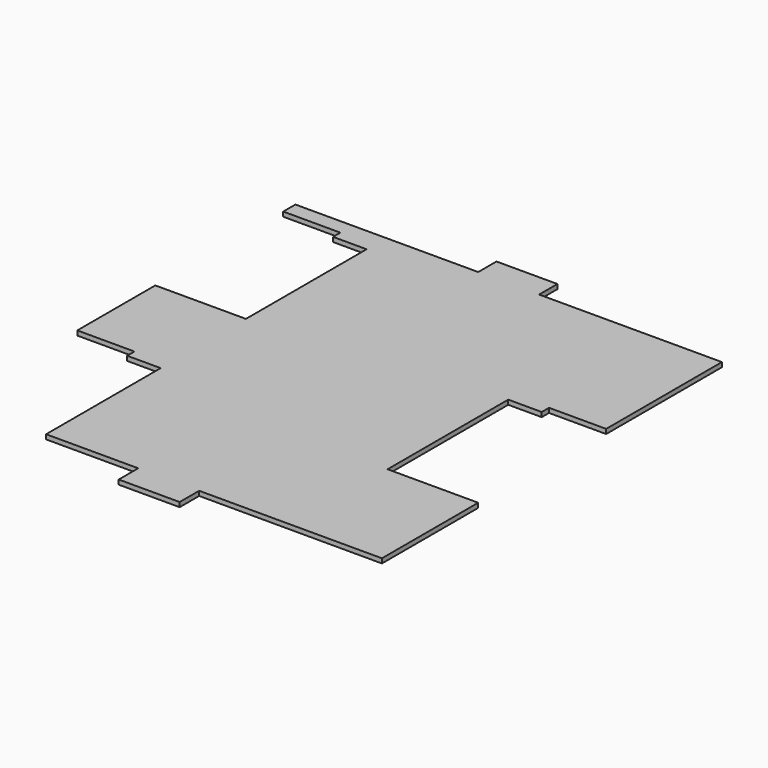
from build123d import *

# Parameters (mm, degrees)
BOX032_W     = 40
BOX032_H     = 17
BOX032_DEPTH = 40
BOX033_W     = 40
BOX033_H     = 17
BOX033_DEPTH = 40
BOX029_W     = 330
BOX029_H     = 20
BOX029_DEPTH = 40
BOX030_W     = 30
BOX030_H     = 330
BOX030_DEPTH = 40
BOX031_W     = 30
BOX031_H     = 330
BOX031_DEPTH = 40
BOX028_W     = 330
BOX028_H     = 20
BOX028_DEPTH = 40
BOX009_W     = 64.5
BOX009_H     = 12
BOX009_DEPTH = 3
BOX008_W     = 64.5
BOX008_H     = 10
BOX008_DEPTH = 3
BOX007_W     = 22
BOX007_H     = 6
BOX007_DEPTH = 3
BOX006_W     = 22
BOX006_H     = 6
BOX006_DEPTH = 3
BOX005_W     = 22
BOX005_H     = 6
BOX005_DEPTH = 3
BOX004_W     = 74.5
BOX004_H     = 117
BOX004_DEPTH = 10
BOX003_W     = 74.5
BOX003_H     = 117
BOX003_DEPTH = 10
BOX002_W     = 74.5
BOX002_H     = 117
BOX002_DEPTH = 10
BOX_W        = 310
BOX_H        = 310
BOX_DEPTH    = 3
BOX010_W     = 64.5
BOX010_H     = 12
BOX010_DEPTH = 3


with BuildPart() as cube031:
    # Box032 → Box032 (new body)
    with BuildSketch(Plane(origin=(-20, 140, 0), x_dir=(1, 0, 0), z_dir=(0, 0, 1))):
        with Locations((20, 8.5)):
            Rectangle(BOX032_W, BOX032_H)
    extrude(amount=BOX032_DEPTH)


with BuildPart() as fusion001010002020:
    # Box033 → Box033 (new body)
    with BuildSketch(Plane(origin=(-20, -156, 0), x_dir=(1, 0, 0), z_dir=(0, 0, 1))):
        with Locations((20, 8.5)):
            Rectangle(BOX033_W, BOX033_H)
    extrude(amount=BOX033_DEPTH)

    # Fusion001010002020: union Cube031
    add(cube031.part)


with BuildPart() as cube028:
    # Box029 → Box029 (new body)
    with BuildSketch(Plane(origin=(-165, -159, 0), x_dir=(1, 0, 0), z_dir=(0, 0, 1))):
        with Locations((165, 10)):
            Rectangle(BOX029_W, BOX029_H)
    extrude(amount=BOX029_DEPTH)


with BuildPart() as cube029:
    # Box030 → Box030 (new body)
    with BuildSketch(Plane(origin=(-170, -170, 0), x_dir=(1, 0, 0), z_dir=(0, 0, 1))):
        with Locations((15, 165)):
            Rectangle(BOX030_W, BOX030_H)
    extrude(amount=BOX030_DEPTH)


with BuildPart() as cube030:
    # Box031 → Box031 (new body)
    with BuildSketch(Plane(origin=(140, -170, 0), x_dir=(1, 0, 0), z_dir=(0, 0, 1))):
        with Locations((15, 165)):
            Rectangle(BOX031_W, BOX031_H)
    extrude(amount=BOX031_DEPTH)


with BuildPart() as cut007:
    # Box028 → Box028 (new body)
    with BuildSketch(Plane(origin=(-165, 140, 0), x_dir=(1, 0, 0), z_dir=(0, 0, 1))):
        with Locations((165, 10)):
            Rectangle(BOX028_W, BOX028_H)
    extrude(amount=BOX028_DEPTH)

    # Fusion001010002021: union Cube028, Cube029, Cube030
    add(cube028.part)
    add(cube029.part)
    add(cube030.part)

    # Cut007: cut Fusion001010002020
    add(fusion001010002020.part, mode=Mode.SUBTRACT)


with BuildPart() as cube008:
    # Box009 → Box009 (new body)
    with BuildSketch(Plane(origin=(80.5, -72, 28), x_dir=(1, 0, 0), z_dir=(0, 0, 1))):
        with Locations((32.25, 6)):
            Rectangle(BOX009_W, BOX009_H)
    extrude(amount=BOX009_DEPTH)


with BuildPart() as cube007:
    # Box008 → Box008 (new body)
    with BuildSketch(Plane(origin=(-145, -155, 28), x_dir=(1, 0, 0), z_dir=(0, 0, 1))):
        with Locations((32.25, 5)):
            Rectangle(BOX008_W, BOX008_H)
    extrude(amount=BOX008_DEPTH)


with BuildPart() as cube006:
    # Box007 → Box007 (new body)
    with BuildSketch(Plane(origin=(-102.5, 124, 28), x_dir=(1, 0, 0), z_dir=(0, 0, 1))):
        with Locations((11, 3)):
            Rectangle(BOX007_W, BOX007_H)
    extrude(amount=BOX007_DEPTH)


with BuildPart() as cube005:
    # Box006 → Box006 (new body)
    with BuildSketch(Plane(origin=(80.5, 39, 28), x_dir=(1, 0, 0), z_dir=(0, 0, 1))):
        with Locations((11, 3)):
            Rectangle(BOX006_W, BOX006_H)
    extrude(amount=BOX006_DEPTH)


with BuildPart() as cube004:
    # Box005 → Box005 (new body)
    with BuildSketch(Plane(origin=(-102.5, -45, 28), x_dir=(1, 0, 0), z_dir=(0, 0, 1))):
        with Locations((11, 3)):
            Rectangle(BOX005_W, BOX005_H)
    extrude(amount=BOX005_DEPTH)


with BuildPart() as cube003:
    # Box004 → Box004 (new body)
    with BuildSketch(Plane(origin=(-155, 13, 24), x_dir=(1, 0, 0), z_dir=(0, 0, 1))):
        with Locations((37.25, 58.5)):
            Rectangle(BOX004_W, BOX004_H)
    extrude(amount=BOX004_DEPTH)


with BuildPart() as cube002:
    # Box003 → Box003 (new body)
    with BuildSketch(Plane(origin=(-155, -156, 24), x_dir=(1, 0, 0), z_dir=(0, 0, 1))):
        with Locations((37.25, 58.5)):
            Rectangle(BOX003_W, BOX003_H)
    extrude(amount=BOX003_DEPTH)


with BuildPart() as fusion:
    # Box002 → Box002 (new body)
    with BuildSketch(Plane(origin=(80.5, -72, 24), x_dir=(1, 0, 0), z_dir=(0, 0, 1))):
        with Locations((37.25, 58.5)):
            Rectangle(BOX002_W, BOX002_H)
    extrude(amount=BOX002_DEPTH)

    # Fusion: union Cube003, Cube002
    add(cube003.part)
    add(cube002.part)


with BuildPart() as cut:
    # Box → Box (new body)
    with BuildSketch(Plane(origin=(-155, -155, 28), x_dir=(1, 0, 0), z_dir=(0, 0, 1))):
        with Locations((155, 155)):
            Rectangle(BOX_W, BOX_H)
    extrude(amount=BOX_DEPTH)

    # Cut: cut Fusion
    add(fusion.part, mode=Mode.SUBTRACT)


with BuildPart() as cut008:
    # Box010 → Box010 (new body)
    with BuildSketch(Plane(origin=(-145, 13, 28), x_dir=(1, 0, 0), z_dir=(0, 0, 1))):
        with Locations((32.25, 6)):
            Rectangle(BOX010_W, BOX010_H)
    extrude(amount=BOX010_DEPTH)

    # Fusion001003: union Cube008, Cube007, Cube006, Cube005, Cube004, Cut
    add(cube008.part)
    add(cube007.part)
    add(cube006.part)
    add(cube005.part)
    add(cube004.part)
    add(cut.part)

    # Cut008: cut Cut007
    add(cut007.part, mode=Mode.SUBTRACT)


solid = cut008.part
